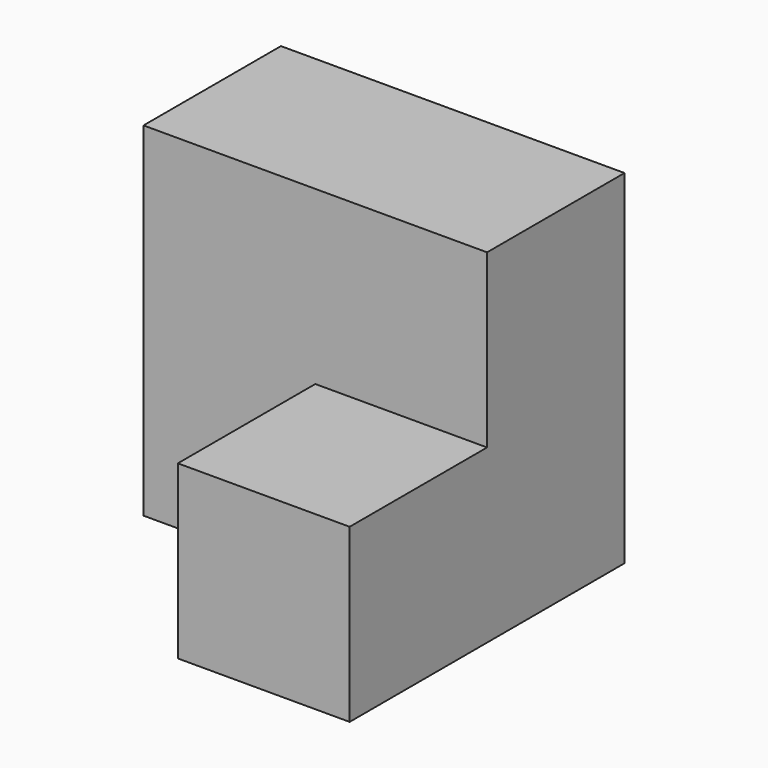
from build123d import *

# Parameters (mm, degrees)
F0_W     = 50.8
F0_H     = 50.8
F1_DEPTH = 25.4
F2_W     = 25.4
F2_H     = 25.4
F3_DEPTH = 25.4
F4_W     = 25.4
F4_H     = 25.4
F5_DEPTH = 25.4
F6_W     = 25.4
F6_H     = 25.4
F7_DEPTH = 25.4
F8_W     = 25.4
F8_H     = 25.4
F9_DEPTH = 50.8


with BuildPart() as f1:
    # F0 (on Front) → F1 (new body)
    with BuildSketch(Plane.XZ):
        with Locations((-25.4, 25.4)):
            Rectangle(F0_W, F0_H)
    extrude(amount=F1_DEPTH)

    # F2 (on Front) → F3 (join)
    with BuildSketch(Plane.XZ):
        with Locations((-12.7, 12.7)):
            Rectangle(F2_W, F2_H)
    extrude(amount=F3_DEPTH)

    # F4 (on Front) → F5 (join)
    with BuildSketch(Plane.XZ):
        with Locations((-12.7, 12.7)):
            Rectangle(F4_W, F4_H)
    extrude(amount=F5_DEPTH)

    # F6 (on Front) → F7 (join)
    with BuildSketch(Plane.XZ):
        with Locations((-12.7, 12.7)):
            Rectangle(F6_W, F6_H)
    extrude(amount=F7_DEPTH)

    # F8 (on Front) → F9 (join)
    with BuildSketch(Plane.XZ):
        with Locations((-12.7, 12.7)):
            Rectangle(F8_W, F8_H)
    extrude(amount=F9_DEPTH)


solid = f1.part
